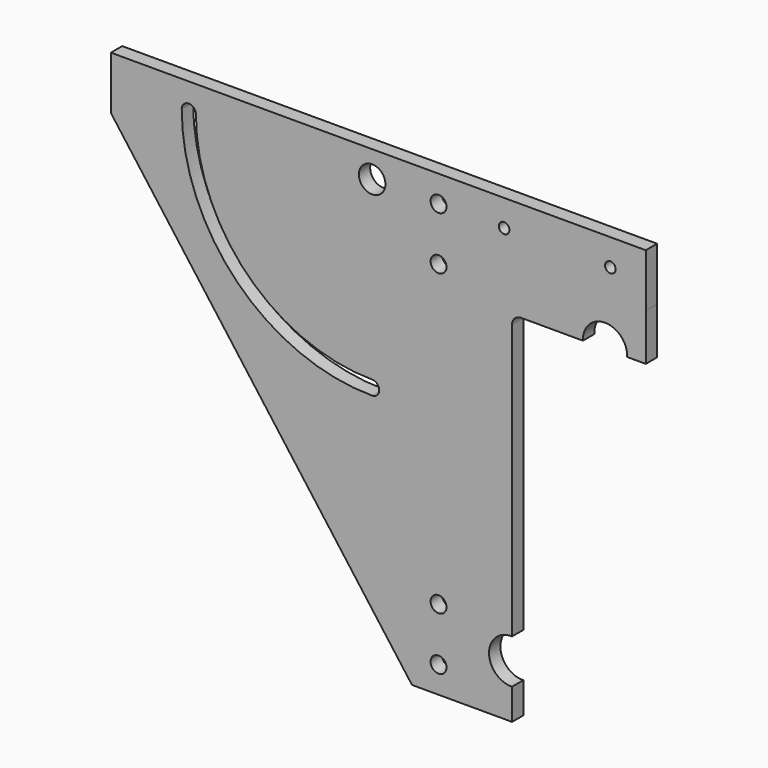
from build123d import *

# Parameters (mm, degrees)
F2_DEPTH = 8
F4_D     = 15
F6_D     = 9
F8_DEPTH = 25
F9_D     = 6


with BuildPart() as f2:
    # F1 (on Front) → F2 (new body)
    with BuildSketch(Plane.XZ):
        with BuildLine():
            Line((-257.7572688935, 147.7572688894), (-257.7572688935, 117.7572688894))
            Line((-257.7572688935, 117.7572688894), (-87.7572688935, -111.2427311235))
            Line((-87.7572688935, -111.2427311235), (-57.7572688935, -111.2427311235))
            Line((-57.7572688935, -111.2427311235), (-31.2572688938, -111.2427311235))
            Line((-31.2572688938, -111.2427311235), (-31.2572688938, -93.7327271198))
            ThreePointArc((-31.2572688938, -93.7327271198), (-44.2572688934, -81.2427311229), (-31.2572688938, -68.7527351261))
            Line((-31.2572688938, -68.7527351261), (-31.2572688938, 86.2572688893))
            ThreePointArc((-31.2572688938, 86.2572688893), (-29.7928027997, 89.7928027952), (-26.2572688938, 91.2572688893))
            Line((-26.2572688938, 91.2572688893), (8.7527351631, 91.2572688893))
            ThreePointArc((8.7527351631, 91.2572688893), (21.2427311599, 104.2572688889), (33.7327271567, 91.2572688893))
            Line((33.7327271567, 91.2572688893), (44.2427311605, 91.2572688893))
            Line((44.2427311605, 91.2572688893), (44.2427311606, 117.757268889))
            Line((44.2427311606, 117.757268889), (44.2427311606, 147.7572688894))
            Line((44.2427311606, 147.7572688894), (-257.7572688935, 147.7572688894))
        make_face()
    extrude(amount=-F2_DEPTH)

    # F4 (through all)
    with Locations(Plane.XZ):
        with Locations((-110.2572688394, 132.7572688894)):
            Hole(F4_D / 2)

    # F6 (through all)
    with Locations(Plane.XZ):
        with Locations((-72.7572688936, -66.2427311235), (-72.7572688936, -96.2427311235), (-72.7572688936, 132.7572688894), (-72.7572688936, 102.7572688894)):
            Hole(F6_D / 2)

    # F7 (on face) → F8 (cut)
    with BuildSketch(Plane.XZ):
        with BuildLine():
            ThreePointArc((-110.2705276792, 33.2572697728), (-180.6190811191, 62.4048320253), (-209.7572688394, 132.7572688894))
            ThreePointArc((-209.7572688394, 132.7572688894), (-213.7572688394, 136.7572688894), (-217.7572688394, 132.7572688894))
            ThreePointArc((-217.7572688394, 132.7572688894), (-186.2763122571, 56.7483546894), (-110.2715937166, 25.2572698438))
            ThreePointArc((-110.2715937166, 25.2572698438), (-106.2710607334, 29.2567367896), (-110.2705276792, 33.2572697728))
        make_face()
    extrude(amount=-F8_DEPTH, mode=Mode.SUBTRACT)

    # F9 (through all)
    with Locations(Plane.XZ):
        with Locations((-35.7572688394, 132.7572688894), (24.2427311606, 132.7572688894)):
            Hole(F9_D / 2)


solid = f2.part
